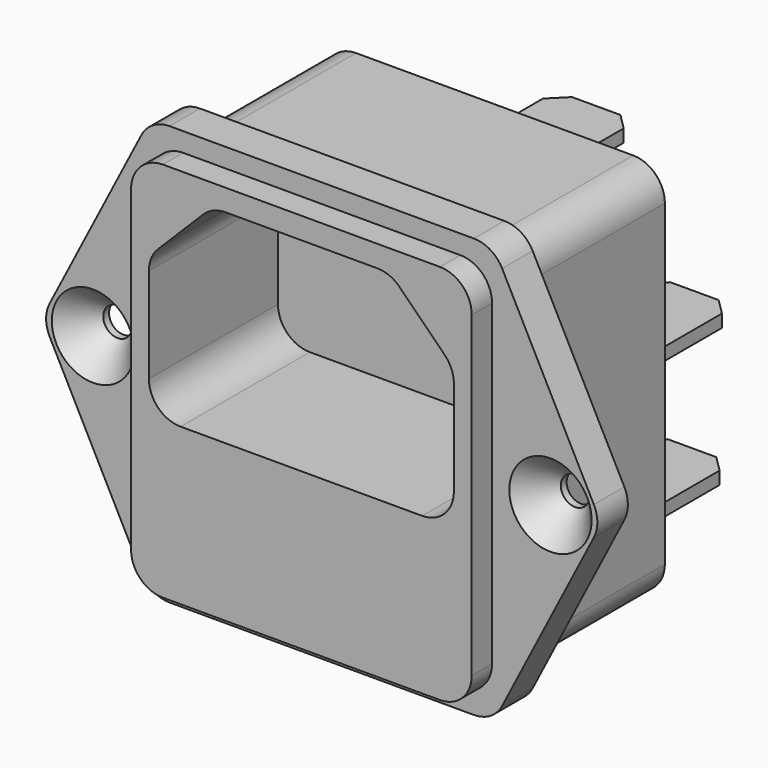
from build123d import *

# Parameters (mm, degrees)
F1_DEPTH        = 3
F2_W            = 26.8
F2_H            = 30
F3_DEPTH        = 5
F4_W            = 26.8
F4_H            = 30
F5_DEPTH        = 14
F7_DEPTH        = 12.7
F8_W            = 6.35
F8_H            = 1
F9_DEPTH        = 10
F10_R           = 2.5
F11_SIZE        = 1.27
F13_D           = 2.2606
F13_DEPTH       = 14.61135
F13_CSINK_D     = 6.477
F13_CSINK_ANGLE = 82
F13_TIP         = 0.6791527577


with BuildPart() as f1:
    # F0 (on Front) → F1 (new body)
    with BuildSketch(Plane.XZ):
        Polygon((13.5, 16.5), (-13.5, 16.5), (-22, 0), (-13.5, -16.5), (13.5, -16.5), (22, 0), align=None)
    extrude(amount=F1_DEPTH)

    # F2 (on face) → F3 (join)
    with BuildSketch(Plane(origin=(0, 0, 0), x_dir=(-1, 0, 0), z_dir=(0, 1, 0))):
        Rectangle(F2_W, F2_H)
    extrude(amount=-F3_DEPTH)

    # F4 (on face) → F5 (join)
    with BuildSketch(Plane(origin=(0, 0, 0), x_dir=(-1, 0, 0), z_dir=(0, 1, 0))):
        Rectangle(F4_W, F4_H)
    extrude(amount=F5_DEPTH)

    # F6 (on face) → F7 (cut)
    with BuildSketch(Plane.XZ.offset(5)):
        Polygon((-12, 8.3), (-12, -2.7), (12, -2.7), (12, 8.3), (7, 13.3), (-7, 13.3), align=None)
    extrude(amount=-F7_DEPTH, mode=Mode.SUBTRACT)

    # F8 (on face) → F9 (join)
    with BuildSketch(Plane(origin=(0, 14, 0), x_dir=(-1, 0, 0), z_dir=(0, 1, 0))):
        with Locations((0, 10.3100380624)):
            Rectangle(F8_W, F8_H)
        with Locations((-7.7292244386, 0)):
            Rectangle(F8_W, F8_H)
        with Locations((-7.5456485327, -10.9369392929)):
            Rectangle(F8_W, F8_H)
    extrude(amount=F9_DEPTH)

    # F10
    f10_edges = [f1.edges().sort_by_distance(p)[0] for p in [
        (-22, -1.5, 0),
        (-13.5, -1.5, 16.5),
        (13.5, -1.5, 16.5),
        (22, -1.5, 0),
        (13.5, -1.5, -16.5),
        (-13.5, -1.5, -16.5),
        (-13.4, -4, -15),
        (13.4, -4, -15),
        (13.4, -4, 15),
        (-13.4, -4, 15),
        (-13.4, 7, 15),
        (13.4, 7, 15),
        (-13.4, 7, -15),
        (13.4, 7, -15),
        (-12, 1.35, 8.3),
        (-7, 1.35, 13.3),
        (7, 1.35, 13.3),
        (12, 1.35, 8.3),
        (12, 1.35, -2.7),
        (-12, 1.35, -2.7),
    ]]
    fillet(f10_edges, radius=F10_R)

    # F11
    f11_edges = [f1.edges().sort_by_distance(p)[0] for p in [
        (10.720649, 24, -10.936939),
        (10.904224, 24, 0),
        (3.175, 24, 10.310038),
        (-3.175, 24, 10.310038),
        (4.554224, 24, 0),
        (4.370649, 24, -10.936939),
    ]]
    chamfer(f11_edges, length=F11_SIZE)

    # F13
    with Locations(Plane.XZ.offset(3)):
        with Locations((-18, 0), (18, 0)):
            CounterSinkHole(F13_D / 2, F13_CSINK_D / 2, depth=F13_DEPTH, counter_sink_angle=F13_CSINK_ANGLE)
            with Locations((0, 0, -(F13_DEPTH + F13_TIP / 2))):  # 118° drill point
                Cone(0, F13_D / 2, F13_TIP, mode=Mode.SUBTRACT)


solid = f1.part
